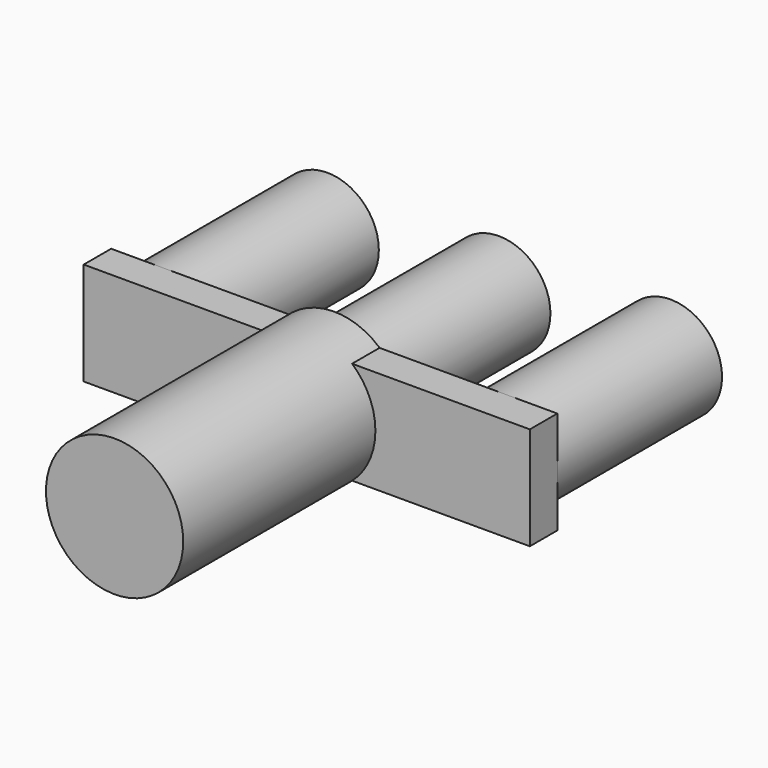
from build123d import *

# Parameters (mm, degrees)
F0_W     = 165.1
F0_H     = 38.1
F1_DEPTH = 12.7
F2_R     = 25.4
F3_DEPTH = 101.6
F4_R     = 19.05
F5_DEPTH = 76.2


with BuildPart() as f1:
    # F0 (on Front) → F1 (new body)
    with BuildSketch(Plane.XZ):
        Rectangle(F0_W, F0_H)
    extrude(amount=F1_DEPTH)


with BuildPart() as f3:
    # F2 (on Front) → F3 (new body)
    with BuildSketch(Plane.XZ):
        Circle(F2_R)
    extrude(amount=F3_DEPTH)


with BuildPart() as f5:
    # F4 (on Front) → F5 (new body)
    with BuildSketch(Plane.XZ):
        with BuildLine():
            Line((19.05, 0), (0, 0))
            Line((0, 0), (-19.05, 0))
            ThreePointArc((-19.05, 0), (0, -19.05), (19.05, 0))
        make_face()
        with BuildLine():
            Line((-19.05, 0), (0, 0))
            Line((0, 0), (19.05, 0))
            ThreePointArc((19.05, 0), (0, 19.05), (-19.05, 0))
        make_face()
        with Locations((-63.5, 0)):
            Circle(F4_R)
        with BuildLine():
            ThreePointArc((82.550005, 0), (63.500005, 19.05), (44.450005, 0))
            ThreePointArc((44.450005, 0), (63.500005, -19.05), (82.550005, 0))
        make_face()
    extrude(amount=-F5_DEPTH)


solid = Compound([f1.part, f3.part, f5.part])
